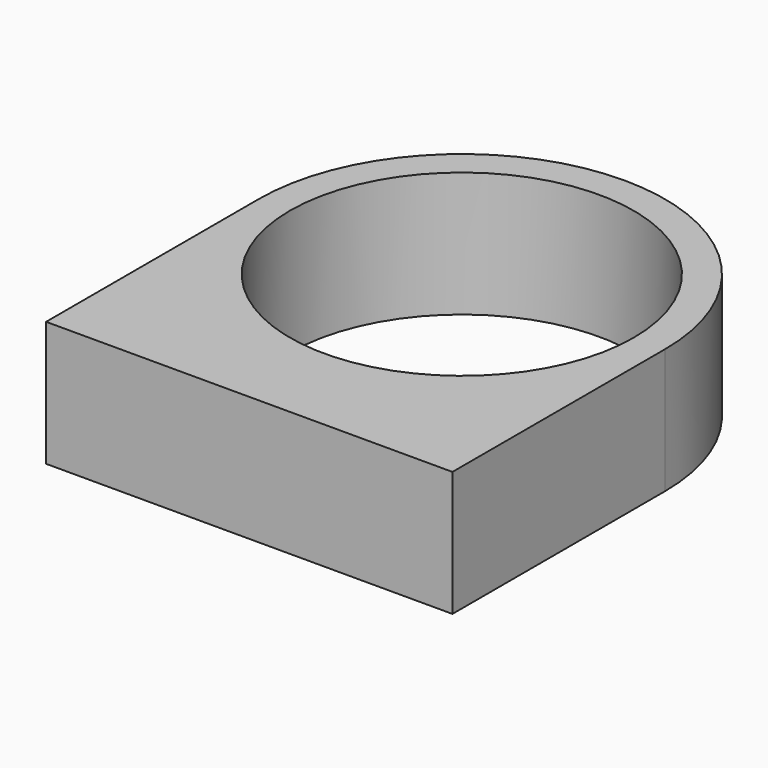
from build123d import *

# Parameters (mm, degrees)
F0_R     = 17.4625
F1_DEPTH = 12.7


with BuildPart() as f1:
    # F0 (on Top) → F1 (new body)
    with BuildSketch(Plane.XY):
        with BuildLine():
            ThreePointArc((-20.6375, 0), (0, -20.6375), (20.6375, 0))
            ThreePointArc((20.6375, 0), (0, 20.6375), (-20.6375, 0))
        make_face()
        Circle(F0_R, mode=Mode.SUBTRACT)
        with BuildLine():
            Line((20.6375, -26.9875), (20.6375, 0))
            ThreePointArc((20.6375, 0), (0, -20.6375), (-20.6375, 0))
            Line((-20.6375, 0), (-20.6375, -26.9875))
            Line((-20.6375, -26.9875), (0, -26.9875))
            Line((0, -26.9875), (20.6375, -26.9875))
        make_face()
    extrude(amount=F1_DEPTH)


solid = f1.part
